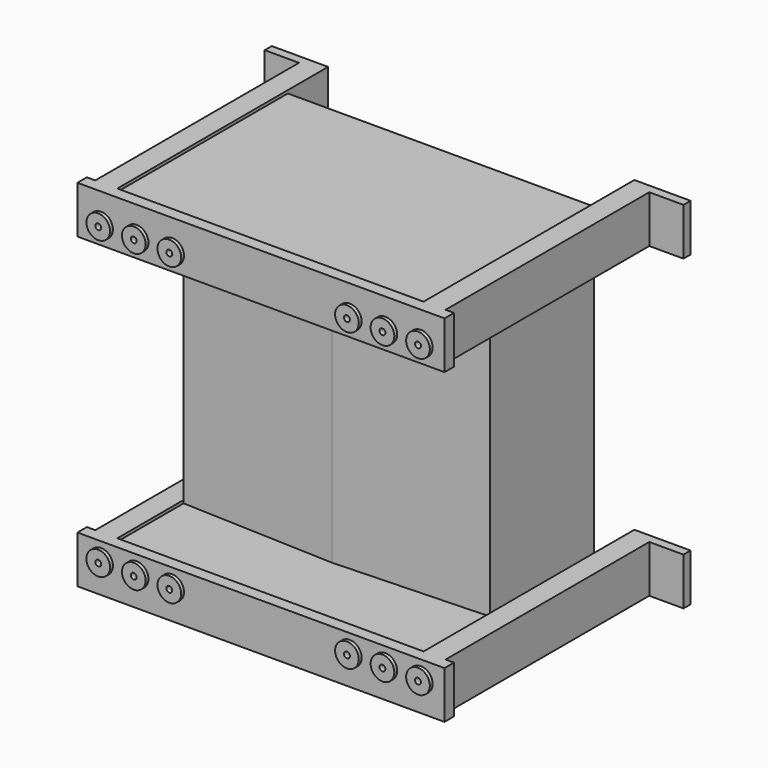
from build123d import *

# Parameters (mm, degrees)
F0_W      = 787.4
F0_H      = 101.6
F1_DEPTH  = 25.4
F2_W      = 736.6
F2_H      = 88.9
F3_DEPTH  = 457.2
F5_DEPTH  = 546.1
F6_W      = 39.85844
F6_H      = 88.9
F7_DEPTH  = 88.9
F8_W      = 120.65
F8_H      = 101.6
F9_DEPTH  = 19.05
F13_DEPTH = 571.5
F14_R     = 6.35
F15_DEPTH = 25.4
F16_R     = 25.4
F16_R_2   = 6.35
F17_DEPTH = 7.62


with BuildPart() as f1:
    # F0 (on Front) → F1 (new body)
    with BuildSketch(Plane.XZ):
        Rectangle(F0_W, F0_H)
    extrude(amount=F1_DEPTH)

    # F2 (on face) → F3 (join)
    with BuildSketch(Plane(origin=(0, 0, 0), x_dir=(-1, 0, 0), z_dir=(0, 1, 0))):
        Rectangle(F2_W, F2_H)
    extrude(amount=F3_DEPTH)

    # F4 (on face) → F5 (join)
    with BuildSketch(Plane(origin=(0, 0, 0), x_dir=(-1, 0, 0), z_dir=(0, 1, 0))):
        Polygon((368.3, -44.45), (328.44156, -44.45), (328.44156, -50.8), (375.660598, -50.8), (375.660598, 50.8), (328.44156, 50.8), (328.44156, 44.45), (368.3, 44.45), align=None)
        Polygon((-375.660598, -50.8), (-328.44156, -50.8), (-328.44156, -44.45), (-368.3, -44.45), (-368.3, 44.45), (-328.44156, 44.45), (-328.44156, 50.8), (-375.660598, 50.8), align=None)
    extrude(amount=F5_DEPTH)

    # F6 (on face) → F7 (join, through all)
    with BuildSketch(Plane(origin=(0, 457.2, 0), x_dir=(-1, 0, 0), z_dir=(0, 1, 0))):
        with Locations((-348.37078, 0)):
            Rectangle(F6_W, F6_H)
        with Locations((348.37078, 0)):
            Rectangle(F6_W, F6_H)
    extrude(amount=F7_DEPTH)

    # F8 (on face) → F9 (join)
    with BuildSketch(Plane(origin=(0, 546.1, 0), x_dir=(-1, 0, 0), z_dir=(0, 1, 0))):
        with Locations((-388.76656, 0)):
            Rectangle(F8_W, F8_H)
        with Locations((388.76656, 0)):
            Rectangle(F8_W, F8_H)
    extrude(amount=F9_DEPTH)


with BuildPart() as f11_1:
    # F11: instance of F1
    add(f1.part.mirror(Plane.XY.offset(330.2)))


with BuildPart() as f13:
    # F12 (on face) → F13 (new body, through all)
    with BuildSketch(Plane(origin=(0, 0, 615.95), x_dir=(1, 0, 0), z_dir=(0, 0, -1))):
        Polygon((-328.44156, -177.8), (-328.44156, -457.2), (328.44156, -457.2), (328.44156, -177.8), (0, -165.1), align=None)
    extrude(amount=F13_DEPTH)


with BuildPart() as f15_tool:
    # F14 (on face) → F15 (new body)
    with BuildSketch(Plane.XZ.offset(25.4)):
        with Locations((190.5, 12.7)):
            Circle(F14_R)
        with Locations((266.7, 12.7)):
            Circle(F14_R)
        with Locations((342.9, 12.7)):
            Circle(F14_R)
        with Locations((190.5, 647.7)):
            Circle(F14_R)
        with Locations((266.7, 647.7)):
            Circle(F14_R)
        with Locations((342.9, 647.7)):
            Circle(F14_R)
        with Locations((-190.5, 647.7)):
            Circle(F14_R)
        with Locations((-266.7, 647.7)):
            Circle(F14_R)
        with Locations((-342.9, 647.7)):
            Circle(F14_R)
        with Locations((-190.5, 12.7)):
            Circle(F14_R)
        with Locations((-266.7, 12.7)):
            Circle(F14_R)
        with Locations((-342.9, 12.7)):
            Circle(F14_R)
    extrude(amount=-F15_DEPTH)


with BuildPart() as f1_1:
    add(f1.part)

    # F15: cut by f15_tool
    add(f15_tool.part, mode=Mode.SUBTRACT)


with BuildPart() as f11_1_1:
    add(f11_1.part)

    # F15: cut by f15_tool
    add(f15_tool.part, mode=Mode.SUBTRACT)


with BuildPart() as f17:
    # F16 (on face) → F17 (new body)
    with BuildSketch(Plane.XZ.offset(25.4)):
        with Locations((190.5, 12.7)):
            Circle(F16_R)
        with Locations((190.5, 12.7)):
            Circle(F16_R_2, mode=Mode.SUBTRACT)
        with Locations((266.7, 12.7)):
            Circle(F16_R)
        with Locations((266.7, 12.7)):
            Circle(F16_R_2, mode=Mode.SUBTRACT)
        with Locations((342.9, 12.7)):
            Circle(F16_R)
        with Locations((342.9, 12.7)):
            Circle(F16_R_2, mode=Mode.SUBTRACT)
        with Locations((190.5, 647.7)):
            Circle(F16_R)
        with Locations((190.5, 647.7)):
            Circle(F16_R_2, mode=Mode.SUBTRACT)
        with Locations((266.7, 647.7)):
            Circle(F16_R)
        with Locations((266.7, 647.7)):
            Circle(F16_R_2, mode=Mode.SUBTRACT)
        with Locations((342.9, 647.7)):
            Circle(F16_R)
        with Locations((342.9, 647.7)):
            Circle(F16_R_2, mode=Mode.SUBTRACT)
        with Locations((-190.5, 647.7)):
            Circle(F16_R)
        with Locations((-190.5, 647.7)):
            Circle(F16_R_2, mode=Mode.SUBTRACT)
        with Locations((-266.7, 647.7)):
            Circle(F16_R)
        with Locations((-266.7, 647.7)):
            Circle(F16_R_2, mode=Mode.SUBTRACT)
        with Locations((-342.9, 647.7)):
            Circle(F16_R)
        with Locations((-342.9, 647.7)):
            Circle(F16_R_2, mode=Mode.SUBTRACT)
        with Locations((-190.5, 12.7)):
            Circle(F16_R)
        with Locations((-190.5, 12.7)):
            Circle(F16_R_2, mode=Mode.SUBTRACT)
        with Locations((-266.7, 12.7)):
            Circle(F16_R)
        with Locations((-266.7, 12.7)):
            Circle(F16_R_2, mode=Mode.SUBTRACT)
        with Locations((-342.9, 12.7)):
            Circle(F16_R)
        with Locations((-342.9, 12.7)):
            Circle(F16_R_2, mode=Mode.SUBTRACT)
    extrude(amount=F17_DEPTH)


solid = Compound([f13.part, f1_1.part, f11_1_1.part, f17.part])
